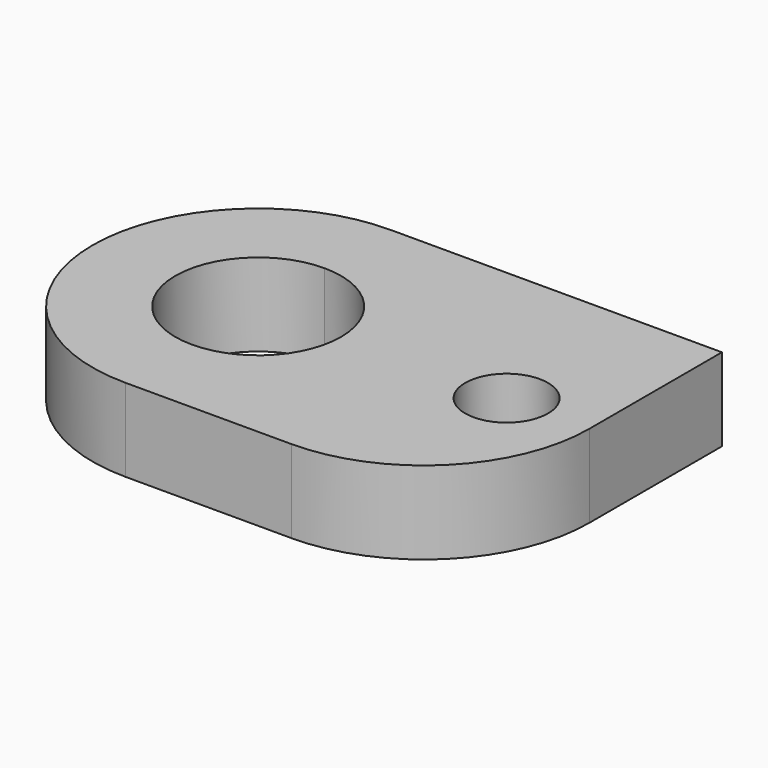
from build123d import *

# Parameters (mm, degrees)
F1_DEPTH = 3.175


with BuildPart() as f1:
    # F0 (on Top) → F1 (new body)
    with BuildSketch(Plane.XY):
        with BuildLine():
            Line((6.35, 3.175), (6.35, 0))
            Line((6.35, 0), (12.7, 0))
            ThreePointArc((12.7, 0), (17.190128, 1.859872), (19.05, 6.35))
            Line((19.05, 6.35), (19.05, 12.7))
            Line((19.05, 12.7), (6.35, 12.7))
            Line((6.35, 12.7), (6.35, 9.525))
            ThreePointArc((6.35, 9.525), (8.595064, 8.595064), (9.525, 6.35))
            ThreePointArc((9.525, 6.35), (8.595064, 4.104936), (6.35, 3.175))
        make_face()
        with BuildLine():
            ThreePointArc((17.4625, 6.35), (15.875, 4.7625), (14.2875, 6.35))
            ThreePointArc((14.2875, 6.35), (15.875, 7.9375), (17.4625, 6.35))
        make_face(mode=Mode.SUBTRACT)
        with BuildLine():
            ThreePointArc((0, 6.35), (1.859872, 1.859872), (6.35, 0))
            Line((6.35, 0), (6.35, 3.175))
            ThreePointArc((6.35, 3.175), (3.175, 6.35), (6.35, 9.525))
            Line((6.35, 9.525), (6.35, 12.7))
            ThreePointArc((6.35, 12.7), (1.859872, 10.840128), (0, 6.35))
        make_face()
    extrude(amount=F1_DEPTH)


solid = f1.part
